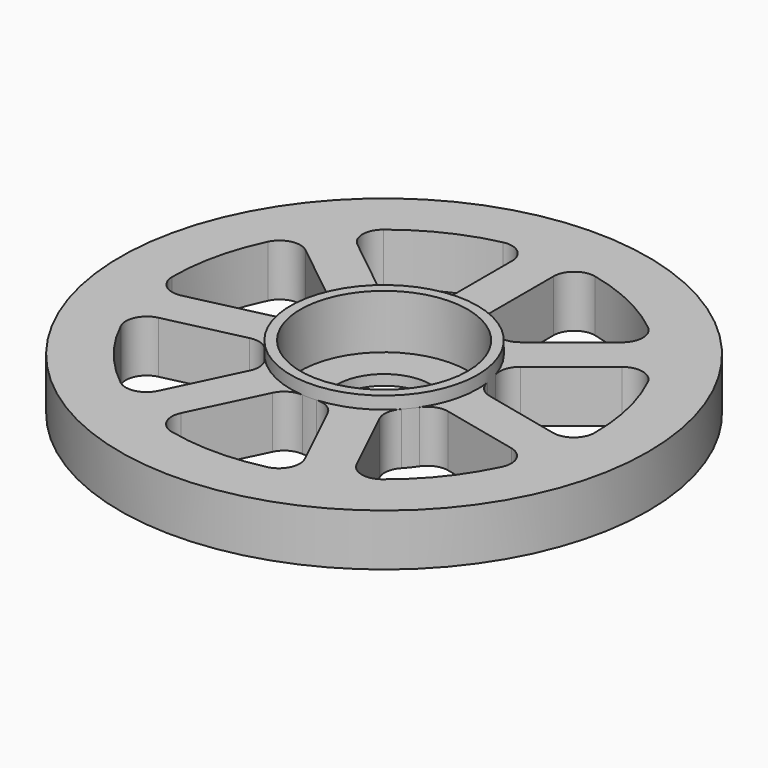
from build123d import *

# Parameters (mm, degrees)
F0_R     = 25.4
F0_R_2   = 8.1
F2_DEPTH = 5
F1_R     = 8.05
F1_R_2   = 4.5
F3_DEPTH = 1
F1_R_3   = 9
F4_DEPTH = 6.2


with BuildPart() as f2:
    # F0 (on Top) → F2 (new body)
    with BuildSketch(Plane.XY):
        Circle(F0_R)
        with BuildLine():
            ThreePointArc((-4.606486482, -19.7909747686), (-5.9568852552, -18.7069483477), (-5.955029879, -16.9752767029))
            Line((-5.955029879, -16.9752767029), (-2.6440475771, -10.0999511093))
            ThreePointArc((-2.6440475771, -10.0999511093), (-1.8405240839, -9.2347532099), (-0.688998961, -8.9735879353))
            ThreePointArc((-0.688998961, -8.9735879353), (0, -9), (0.688998961, -8.9735879353))
            ThreePointArc((0.688998961, -8.9735879353), (1.8405240839, -9.2347532099), (2.6440475771, -10.0999511093))
            Line((2.6440475771, -10.0999511093), (5.955029879, -16.9752767029))
            ThreePointArc((5.955029879, -16.9752767029), (5.9568852552, -18.7069483477), (4.606486482, -19.7909747686))
            ThreePointArc((4.606486482, -19.7909747686), (0, -20.32), (-4.606486482, -19.7909747686))
        make_face(mode=Mode.SUBTRACT)
        with BuildLine():
            ThreePointArc((-18.3453044867, -8.7379747819), (-18.3397383666, -7.0063110887), (-16.9847061493, -5.9280820695))
            Line((-16.9847061493, -5.9280820695), (-9.5449964486, -4.230016879))
            ThreePointArc((-9.5449964486, -4.230016879), (-8.3675687887, -4.318794776), (-7.4454173842, -5.0562594846))
            ThreePointArc((-7.4454173842, -5.0562594846), (-7.0364833422, -5.6114082167), (-6.5862497328, -6.1336216428))
            ThreePointArc((-6.5862497328, -6.1336216428), (-6.0724727959, -7.1967541221), (-6.2479230487, -8.3644161528))
            Line((-6.2479230487, -8.3644161528), (-9.5589053506, -15.2397417464))
            ThreePointArc((-9.5589053506, -15.2397417464), (-10.9116239517, -16.3208719487), (-12.6011097989, -15.9409670922))
            ThreePointArc((-12.6011097989, -15.9409670922), (-15.8868157238, -12.6693127738), (-18.3453044867, -8.7379747819))
        make_face(mode=Mode.SUBTRACT)
        Circle(F0_R_2, mode=Mode.SUBTRACT)
        with BuildLine():
            ThreePointArc((12.6011097989, -15.9409670922), (10.9116239517, -16.3208719487), (9.5589053506, -15.2397417464))
            Line((9.5589053506, -15.2397417464), (6.2479230487, -8.3644161528))
            ThreePointArc((6.2479230487, -8.3644161528), (6.0724727959, -7.1967541221), (6.5862497328, -6.1336216428))
            ThreePointArc((6.5862497328, -6.1336216428), (7.0364833422, -5.6114082167), (7.4454173842, -5.0562594846))
            ThreePointArc((7.4454173842, -5.0562594846), (8.3675687887, -4.318794776), (9.5449964486, -4.230016879))
            Line((9.5449964486, -4.230016879), (16.9847061493, -5.9280820695))
            ThreePointArc((16.9847061493, -5.9280820695), (18.3397383666, -7.0063110887), (18.3453044867, -8.7379747819))
            ThreePointArc((18.3453044867, -8.7379747819), (15.8868157238, -12.6693127738), (12.6011097989, -15.9409670922))
        make_face(mode=Mode.SUBTRACT)
        with BuildLine():
            ThreePointArc((-18.269734037, 8.8948984378), (-16.9123944255, 9.9702213228), (-15.2245522643, 9.583079273))
            Line((-15.2245522643, 9.583079273), (-9.2583683118, 4.8252063378))
            ThreePointArc((-9.2583683118, 4.8252063378), (-8.5936635283, 3.8493042116), (-8.5952846582, 2.6685354869))
            ThreePointArc((-8.5952846582, 2.6685354869), (-8.7743512096, 2.0026884056), (-8.9019180428, 1.3250868497))
            ThreePointArc((-8.9019180428, 1.3250868497), (-9.4127738045, 0.2605476067), (-10.4350801844, -0.3303052303))
            Line((-10.4350801844, -0.3303052303), (-17.8747898851, -2.0283704208))
            ThreePointArc((-17.8747898851, -2.0283704208), (-19.5634577664, -1.6448460872), (-20.3198133854, -0.087086059))
            ThreePointArc((-20.3198133854, -0.087086059), (-19.8105351755, 4.521625378), (-18.269734037, 8.8948984378))
        make_face(mode=Mode.SUBTRACT)
        with BuildLine():
            ThreePointArc((-2, 10.246950766), (-2.3485543523, 9.1187986163), (-3.2727272727, 8.3838688085))
            ThreePointArc((-3.2727272727, 8.3838688085), (-3.9049536521, 8.1087198111), (-4.5142605006, 7.7859779176))
            ThreePointArc((-4.5142605006, 7.7859779176), (-5.6650641528, 7.5216516734), (-6.7644091044, 7.9525322677))
            Line((-6.7644091044, 7.9525322677), (-12.7305930568, 12.7104052029))
            ThreePointArc((-12.7305930568, 12.7104052029), (-13.4836088612, 14.2697824267), (-12.7372830441, 15.832372553))
            ThreePointArc((-12.7372830441, 15.832372553), (-8.8165175789, 18.3076873958), (-4.4366812227, 19.8297317109))
            ThreePointArc((-4.4366812227, 19.8297317109), (-2.749672532, 19.4389737228), (-2, 17.8779864638))
            Line((-2, 17.8779864638), (-2, 10.246950766))
        make_face(mode=Mode.SUBTRACT)
        with BuildLine():
            ThreePointArc((20.3198133854, -0.087086059), (19.5634577664, -1.6448460872), (17.8747898851, -2.0283704208))
            Line((17.8747898851, -2.0283704208), (10.4350801844, -0.3303052303))
            ThreePointArc((10.4350801844, -0.3303052303), (9.4127738045, 0.2605476067), (8.9019180428, 1.3250868497))
            ThreePointArc((8.9019180428, 1.3250868497), (8.7743512096, 2.0026884056), (8.5952846582, 2.6685354869))
            ThreePointArc((8.5952846582, 2.6685354869), (8.5936635283, 3.8493042116), (9.2583683118, 4.8252063378))
            Line((9.2583683118, 4.8252063378), (15.2245522643, 9.583079273))
            ThreePointArc((15.2245522643, 9.583079273), (16.9123944255, 9.9702213228), (18.269734037, 8.8948984378))
            ThreePointArc((18.269734037, 8.8948984378), (19.8105351755, 4.521625378), (20.3198133854, -0.087086059))
        make_face(mode=Mode.SUBTRACT)
        with BuildLine():
            Line((2, 10.246950766), (2, 17.8779864638))
            ThreePointArc((2, 17.8779864638), (2.749672532, 19.4389737228), (4.4366812227, 19.8297317109))
            ThreePointArc((4.4366812227, 19.8297317109), (8.8165175789, 18.3076873958), (12.7372830441, 15.832372553))
            ThreePointArc((12.7372830441, 15.832372553), (13.4836088612, 14.2697824267), (12.7305930568, 12.7104052029))
            Line((12.7305930568, 12.7104052029), (6.7644091044, 7.9525322677))
            ThreePointArc((6.7644091044, 7.9525322677), (5.6650641528, 7.5216516734), (4.5142605006, 7.7859779176))
            ThreePointArc((4.5142605006, 7.7859779176), (3.9049536521, 8.1087198111), (3.2727272727, 8.3838688085))
            ThreePointArc((3.2727272727, 8.3838688085), (2.3485543523, 9.1187986163), (2, 10.246950766))
        make_face(mode=Mode.SUBTRACT)
    extrude(amount=F2_DEPTH)



with BuildPart() as f3:
    # F1 (on face) → F3 (new body)
    with BuildSketch(Plane.XY):
        Circle(F1_R)
        Circle(F1_R_2, mode=Mode.SUBTRACT)
    extrude(amount=F3_DEPTH)


with BuildPart() as f2_1:
    add(f2.part)

    add(f3.part)  # F4 merges F3
    # F1 (on face) → F4 (join)
    with BuildSketch(Plane.XY):
        Circle(F1_R_3)
        Circle(F1_R, mode=Mode.SUBTRACT)
    extrude(amount=F4_DEPTH)


solid = f2_1.part
